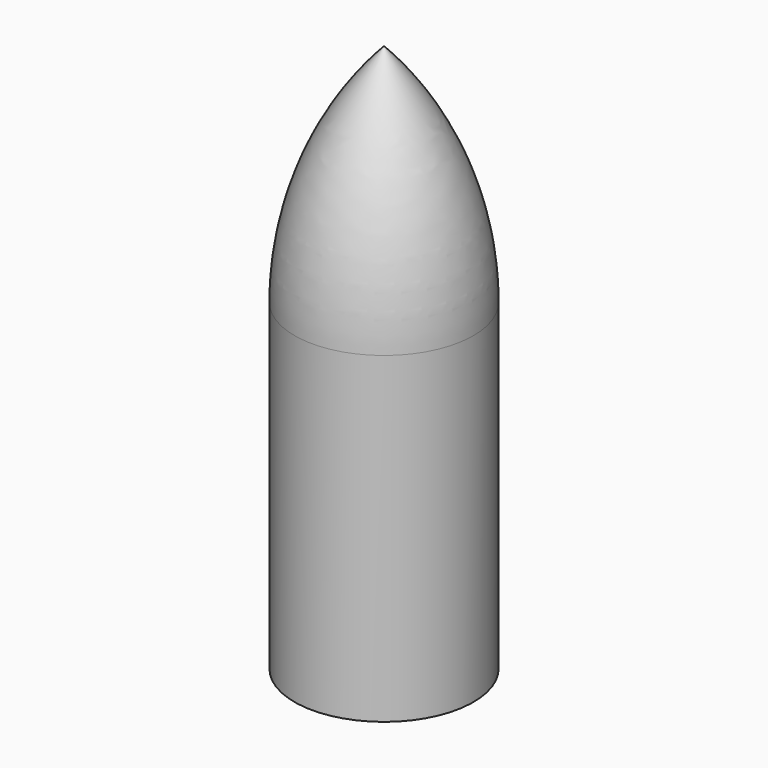
from build123d import *


with BuildPart() as f1:
    # F0 (on Right) → F1 (revolve)
    with BuildSketch(Plane.YZ):
        with BuildLine():
            ThreePointArc((9, 14.640552), (6.130312, 20.56585), (0, 22.966589))
            Line((0, 22.966589), (0, -41.033411))
            Line((0, -41.033411), (4, -41.033411))
            Line((4, -41.033411), (4, -39.866394))
            ThreePointArc((4, -39.866394), (4.78243, -38.10774), (6.612589, -37.511434))
            ThreePointArc((6.612589, -37.511434), (8.285007, -36.966524), (9, -35.359448))
            Line((9, -35.359448), (9, 14.640552))
        make_face()
    revolve(axis=Axis((0, 0, -9.033411), (0, 0, -1)))


with BuildPart() as f3:
    # F2 (on Right) → F3 (revolve)
    with BuildSketch(Plane.YZ):
        with BuildLine():
            Line((0, 58.848605), (0, 29.022748))
            Line((0, 29.022748), (12.268001, 17.553441))
            Line((12.268001, 17.553441), (12.268001, -41.431561))
            Line((12.268001, -41.431561), (16.364185, -41.431561))
            Line((16.364185, -41.431561), (16.364185, 17.553441))
            ThreePointArc((16.364185, 17.553441), (12.124026, 39.763107), (0, 58.848605))
        make_face()
    revolve(axis=Axis((0, 0, 8.842848), (0, 0, 1)))


solid = Compound([f1.part, f3.part])
